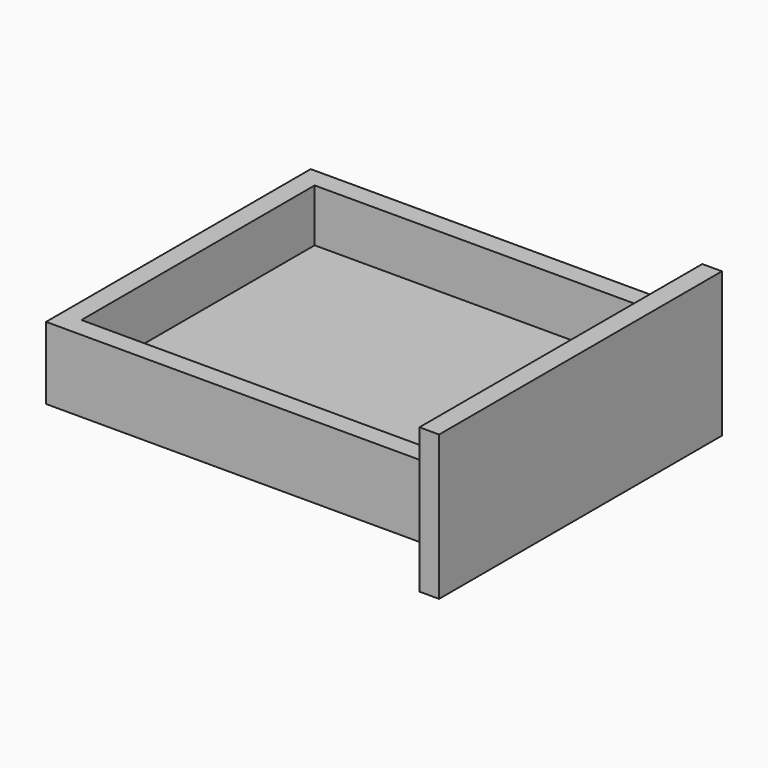
from build123d import *

# Parameters (mm, degrees)
F0_W     = 370
F0_H     = 320
F1_DEPTH = 70
F2_W     = 332
F2_H     = 282
F3_DEPTH = 51
F4_W     = 342
F4_H     = 140
F5_DEPTH = 19


with BuildPart() as f1:
    # F0 (on Top) → F1 (new body)
    with BuildSketch(Plane.XY):
        Rectangle(F0_W, F0_H)
    extrude(amount=F1_DEPTH)

    # F2 (on face) → F3 (cut)
    with BuildSketch(Plane.XY.offset(70)):
        Rectangle(F2_W, F2_H)
    extrude(amount=-F3_DEPTH, mode=Mode.SUBTRACT)

    # F4 (on face) → F5 (join)
    with BuildSketch(Plane.YZ.offset(185)):
        with Locations((0, 35)):
            Rectangle(F4_W, F4_H)
    extrude(amount=F5_DEPTH)


solid = f1.part
